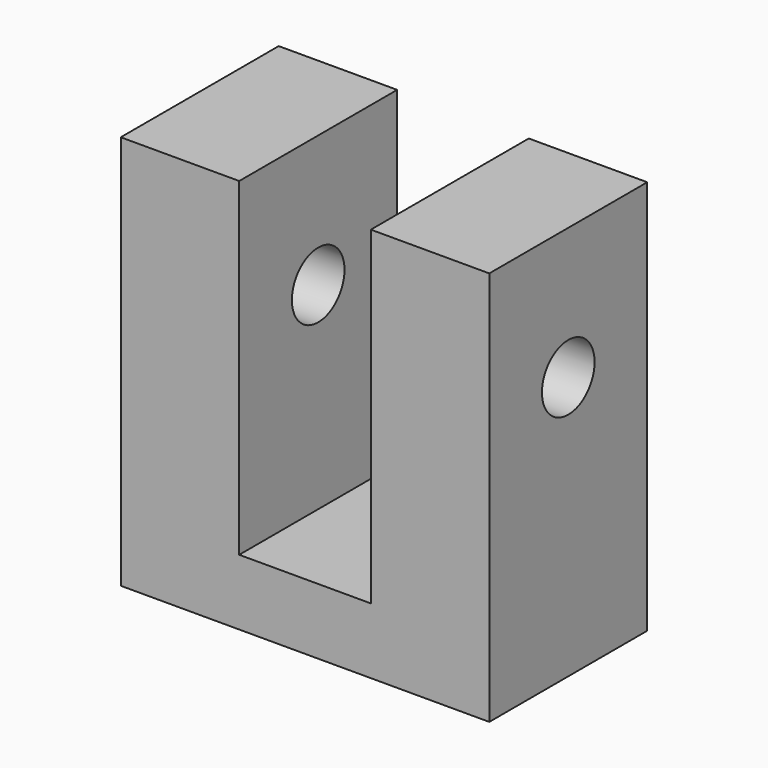
from build123d import *

# Parameters (mm, degrees)
F1_DEPTH = 9.525
F2_R     = 3.175
F3_DEPTH = 1270
F4_R     = 3.175
F5_DEPTH = 12.7


with BuildPart() as f1:
    # F0 (on Front) → F1 (new body, symmetric)
    with BuildSketch(Plane.XZ):
        Polygon((6.35, -19.05), (0, -19.05), (-6.35, -19.05), (-6.35, 12.7), (-17.78, 12.7), (-17.78, -25.4), (0, -25.4), (17.78, -25.4), (17.78, 12.7), (6.35, 12.7), align=None)
    extrude(amount=F1_DEPTH, both=True)

    # F2 (on Right) → F3 (cut, symmetric)
    with BuildSketch(Plane.YZ):
        Circle(F2_R)
    extrude(amount=F3_DEPTH, both=True, mode=Mode.SUBTRACT)

    # F4 (on face) → F5 (cut)
    with BuildSketch(Plane(origin=(0, 0, -25.4), x_dir=(1, 0, 0), z_dir=(0, 0, -1))):
        with Locations((13.0048, -3.175)):
            Circle(F4_R)
        with Locations((-13.0048, -3.175)):
            Circle(F4_R)
    extrude(amount=-F5_DEPTH, mode=Mode.SUBTRACT)


solid = f1.part
